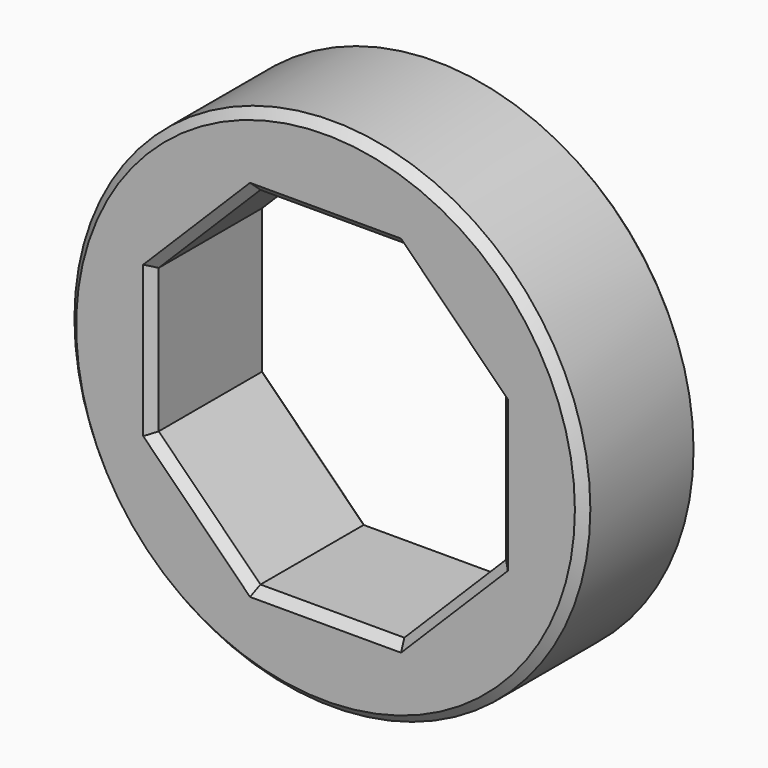
from build123d import *

# Parameters (mm, degrees)
F0_R     = 15
F1_DEPTH = 8.5
F2_SIZE  = 0.5


with BuildPart() as f1:
    # F0 (on Front) → F1 (new body)
    with BuildSketch(Plane.XZ):
        Circle(F0_R)
        Polygon((-4.183557, -10.1), (-10.1, -4.183557), (-10.1, 4.183557), (-4.183557, 10.1), (4.183557, 10.1), (10.1, 4.183557), (10.1, -4.183557), (4.183557, -10.1), align=None, mode=Mode.SUBTRACT)
    extrude(amount=F1_DEPTH)

    # F2
    f2_edges = [f1.edges().sort_by_distance(p)[0] for p in [
        (-15, -8.5, 0),
        (0, -8.5, -10.1),
        (-7.141778, -8.5, -7.141778),
        (-10.1, -8.5, 0),
        (-7.141778, -8.5, 7.141778),
        (0, -8.5, 10.1),
        (7.141778, -8.5, 7.141778),
        (10.1, -8.5, 0),
        (7.141778, -8.5, -7.141778),
        (-15, 0, 0),
        (0, 0, -10.1),
        (-7.141778, 0, -7.141778),
        (-10.1, 0, 0),
        (-7.141778, 0, 7.141778),
        (0, 0, 10.1),
        (7.141778, 0, 7.141778),
        (10.1, 0, 0),
        (7.141778, 0, -7.141778),
    ]]
    chamfer(f2_edges, length=F2_SIZE)


solid = f1.part
